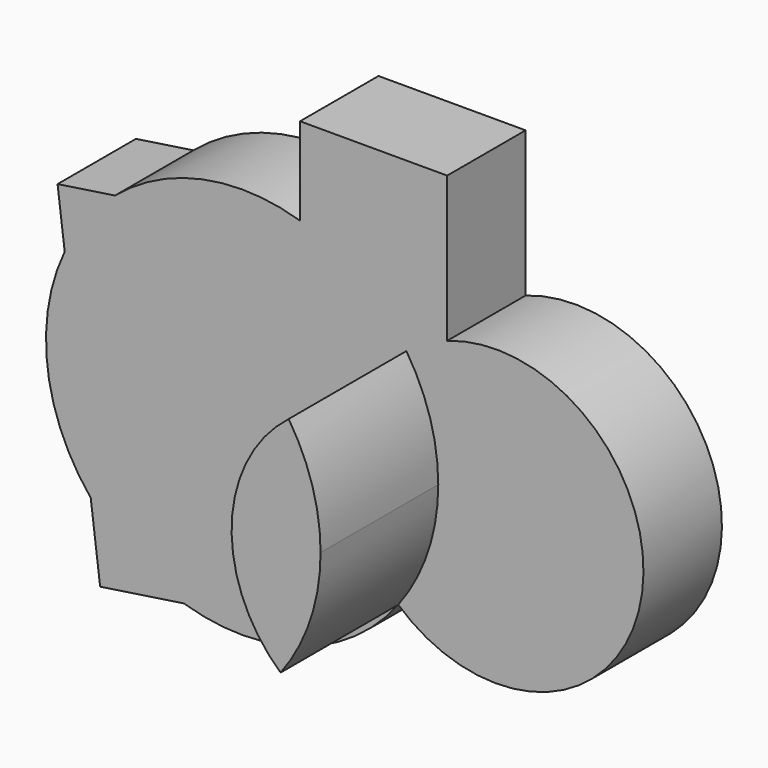
from build123d import *

# Parameters (mm, degrees)
F1_DEPTH = 63.5
F2_DEPTH = 25.4


with BuildPart() as f1:
    # F0 (on Front) → F1 (new body)
    with BuildSketch(Plane.XZ):
        with BuildLine():
            ThreePointArc((-23.3141587542, 30.1340339415), (-38.0755183423, 1.3656145011), (-25.4130490193, -28.3863865178))
            ThreePointArc((-25.4130490193, -28.3863865178), (-17.7108136139, -13.8618974825), (-15.0505260944, 2.3617914412))
            ThreePointArc((-15.0505260944, 2.3617914412), (-17.1602423569, 16.849588705), (-23.3141587542, 30.1340339415))
        make_face()
    extrude(amount=F1_DEPTH)

    # F0 (on Front) → F2 (join)
    with BuildSketch(Plane.XZ):
        with BuildLine():
            ThreePointArc((-25.4130490193, -28.3863865178), (15.5462669532, -34.7839558391), (38.1, 0))
            ThreePointArc((38.1, 0), (21.9754793771, 31.1237579053), (-12.7497798503, 35.903385826))
            ThreePointArc((-12.7497798503, 35.903385826), (-18.2612505653, 33.4385515205), (-23.3141587542, 30.1340339415))
            ThreePointArc((-23.3141587542, 30.1340339415), (-17.1602423569, 16.849588705), (-15.0505260944, 2.3617914412))
            ThreePointArc((-15.0505260944, 2.3617914412), (-17.7108136139, -13.8618974825), (-25.4130490193, -28.3863865178))
        make_face()
        with BuildLine():
            ThreePointArc((-23.3141587542, 30.1340339415), (-18.2612505653, 33.4385515205), (-12.7497798503, 35.903385826))
            Line((-12.7497798503, 35.903385826), (-12.7497798503, 73.5738801328))
            Line((-12.7497798503, 73.5738801328), (-50.8497798503, 73.5738801328))
            Line((-50.8497798503, 73.5738801328), (-50.8497798503, 50.8964966749))
            ThreePointArc((-50.8497798503, 50.8964966749), (-35.2662192591, 42.9233517589), (-23.3141587542, 30.1340339415))
        make_face()
        with BuildLine():
            ThreePointArc((-80.903409919, -46.156768807), (-50.357269003, -46.0179458948), (-25.4130490193, -28.3863865178))
            ThreePointArc((-25.4130490193, -28.3863865178), (-38.0755183423, 1.3656145011), (-23.3141587542, 30.1340339415))
            ThreePointArc((-23.3141587542, 30.1340339415), (-35.2662192591, 42.9233517589), (-50.8497798503, 50.8964966749))
            Line((-50.8497798503, 50.8964966749), (-50.8497798503, 48.1738801328))
            Line((-50.8497798503, 48.1738801328), (-39.8230887478, -40.0396227074))
            Line((-39.8230887478, -40.0396227074), (-80.903409919, -46.156768807))
        make_face()
        with BuildLine():
            ThreePointArc((-23.3141587542, 30.1340339415), (-38.0755183423, 1.3656145011), (-25.4130490193, -28.3863865178))
            ThreePointArc((-25.4130490193, -28.3863865178), (-17.7108136139, -13.8618974825), (-15.0505260944, 2.3617914412))
            ThreePointArc((-15.0505260944, 2.3617914412), (-17.1602423569, 16.849588705), (-23.3141587542, 30.1340339415))
        make_face()
        with BuildLine():
            ThreePointArc((-105.0628087076, -29.9342902447), (-94.1695881341, -39.8124984188), (-80.903409919, -46.156768807))
            Line((-80.903409919, -46.156768807), (-39.8230887478, -40.0396227074))
            Line((-39.8230887478, -40.0396227074), (-50.8497798503, 48.1738801328))
            Line((-50.8497798503, 48.1738801328), (-98.7899056875, 41.0352613143))
            ThreePointArc((-98.7899056875, 41.0352613143), (-106.2058423832, 33.2177219447), (-111.8060832271, 24.0118900236))
            Line((-111.8060832271, 24.0118900236), (-105.0628087076, -29.9342902447))
        make_face()
        with BuildLine():
            Line((-102.6305822497, -49.3920961777), (-80.903409919, -46.156768807))
            ThreePointArc((-80.903409919, -46.156768807), (-94.1695881341, -39.8124984188), (-105.0628087076, -29.9342902447))
            Line((-105.0628087076, -29.9342902447), (-102.6305822497, -49.3920961777))
        make_face()
        with BuildLine():
            Line((-50.8497798503, 48.1738801328), (-50.8497798503, 50.8964966749))
            ThreePointArc((-50.8497798503, 50.8964966749), (-76.0857413983, 52.120010538), (-98.7899056875, 41.0352613143))
            Line((-98.7899056875, 41.0352613143), (-50.8497798503, 48.1738801328))
        make_face()
        with BuildLine():
            ThreePointArc((-111.8060832271, 24.0118900236), (-116.2582420031, -3.939174903), (-105.0628087076, -29.9342902447))
            Line((-105.0628087076, -29.9342902447), (-111.8060832271, 24.0118900236))
        make_face()
        with BuildLine():
            ThreePointArc((-111.8060832271, 24.0118900236), (-106.2058423832, 33.2177219447), (-98.7899056875, 41.0352613143))
            Line((-98.7899056875, 41.0352613143), (-113.6572733521, 38.8214066625))
            Line((-113.6572733521, 38.8214066625), (-111.8060832271, 24.0118900236))
        make_face()
    extrude(amount=F2_DEPTH)


solid = f1.part
